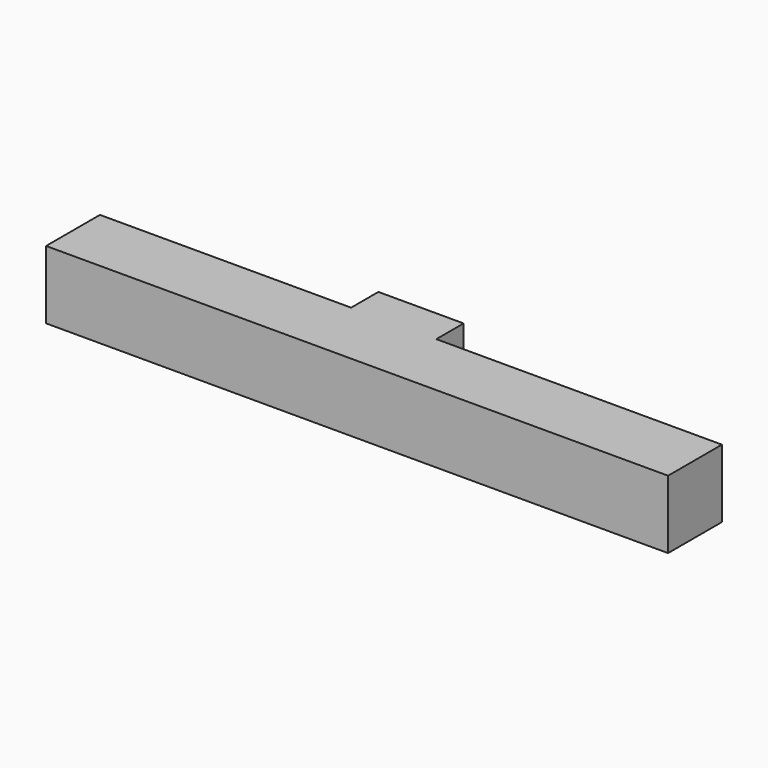
from build123d import *

# Parameters (mm, degrees)
BOX070_W     = 10
BOX070_H     = 10
BOX070_DEPTH = 8
BOX069_W     = 73
BOX069_H     = 7.9
BOX069_DEPTH = 8


with BuildPart() as cube068:
    # Box070 → Box070 (new body)
    with BuildSketch(Plane(origin=(-11.3, -8.1, 5.5), x_dir=(1, 0, 0), z_dir=(0, 0, 1))):
        with Locations((5, 5)):
            Rectangle(BOX070_W, BOX070_H)
    extrude(amount=BOX070_DEPTH)


with BuildPart() as obj1:
    # Box069 → Box069 (new body)
    with BuildSketch(Plane(origin=(-40.78, -10, 5.5), x_dir=(1, 0, 0), z_dir=(0, 0, 1))):
        with Locations((36.5, 3.95)):
            Rectangle(BOX069_W, BOX069_H)
    extrude(amount=BOX069_DEPTH)

    # Fusion006: union Cube068
    add(cube068.part)


solid = obj1.part
